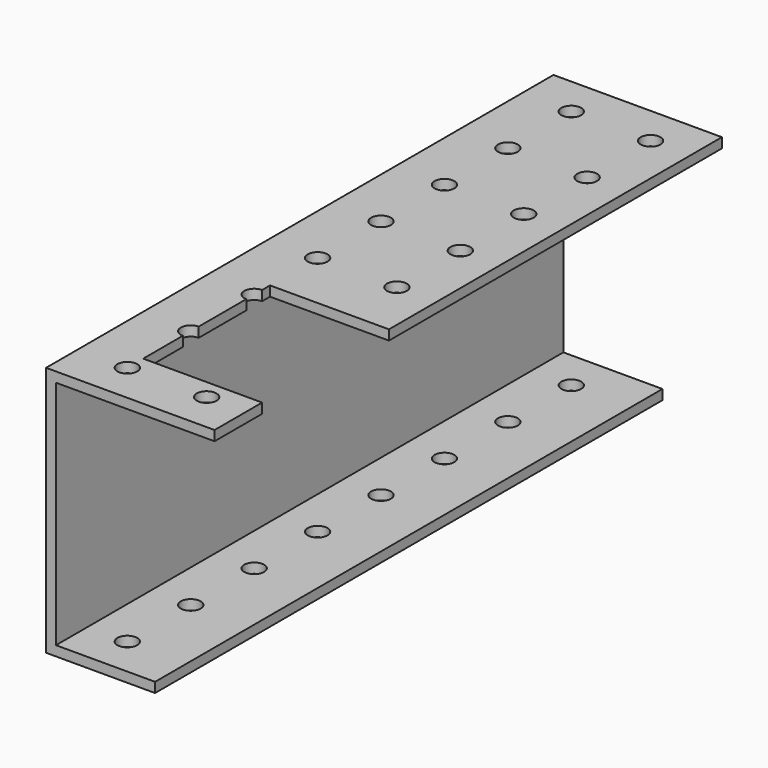
from build123d import *

# Parameters (mm, degrees)
F1_DEPTH = 203.2
F2_R     = 3.175
F3_DEPTH = 101.6
F4_R     = 3.175
F5_DEPTH = 25.4


with BuildPart() as f1:
    # F0 (on Front) → F1 (new body)
    with BuildSketch(Plane.XZ):
        Polygon((53.975, 44.519556), (0, 44.519556), (0, -35.871444), (34.925, -35.871444), (34.925, -32.696444), (3.175, -32.696444), (3.175, 41.344556), (53.975, 41.344556), align=None)
    extrude(amount=F1_DEPTH)

    # F2 (on face) → F3 (cut)
    with BuildSketch(Plane.XY.offset(44.519556)):
        with Locations((41.275, -190.5)):
            Circle(F2_R)
        with Locations((41.275, -165.1)):
            Circle(F2_R)
        with Locations((41.275, -139.7)):
            Circle(F2_R)
        with Locations((41.275, -114.3)):
            Circle(F2_R)
        with Locations((41.275, -88.9)):
            Circle(F2_R)
        with Locations((41.275, -63.5)):
            Circle(F2_R)
        with Locations((41.275, -38.1)):
            Circle(F2_R)
        with Locations((41.275, -12.7)):
            Circle(F2_R)
        with Locations((15.875, -190.5)):
            Circle(F2_R)
        with Locations((15.875, -165.1)):
            Circle(F2_R)
        with Locations((15.875, -139.7)):
            Circle(F2_R)
        with Locations((15.875, -114.3)):
            Circle(F2_R)
        with Locations((15.875, -88.9)):
            Circle(F2_R)
        with Locations((15.875, -63.5)):
            Circle(F2_R)
        with Locations((15.875, -38.1)):
            Circle(F2_R)
        with Locations((15.875, -12.7)):
            Circle(F2_R)
    extrude(amount=-F3_DEPTH, mode=Mode.SUBTRACT)

    # F4 (on face) → F5 (cut)
    with BuildSketch(Plane.XY.offset(44.519556)):
        with BuildLine():
            Line((15.875, -184.15), (53.975, -184.15))
            Line((53.975, -184.15), (53.975, -133.35))
            Line((53.975, -133.35), (15.875, -133.35))
            Line((15.875, -133.35), (15.875, -136.525))
            ThreePointArc((15.875, -136.525), (18.120064, -137.454936), (19.05, -139.7))
            ThreePointArc((19.05, -139.7), (18.120064, -141.945064), (15.875, -142.875))
            Line((15.875, -142.875), (15.875, -161.925))
            ThreePointArc((15.875, -161.925), (18.120064, -162.854936), (19.05, -165.1))
            ThreePointArc((19.05, -165.1), (18.120064, -167.345064), (15.875, -168.275))
            Line((15.875, -168.275), (15.875, -184.15))
        make_face()
        with Locations((41.275, -165.1)):
            Circle(F4_R, mode=Mode.SUBTRACT)
        with Locations((41.275, -139.7)):
            Circle(F4_R, mode=Mode.SUBTRACT)
    extrude(amount=-F5_DEPTH, mode=Mode.SUBTRACT)


solid = f1.part
